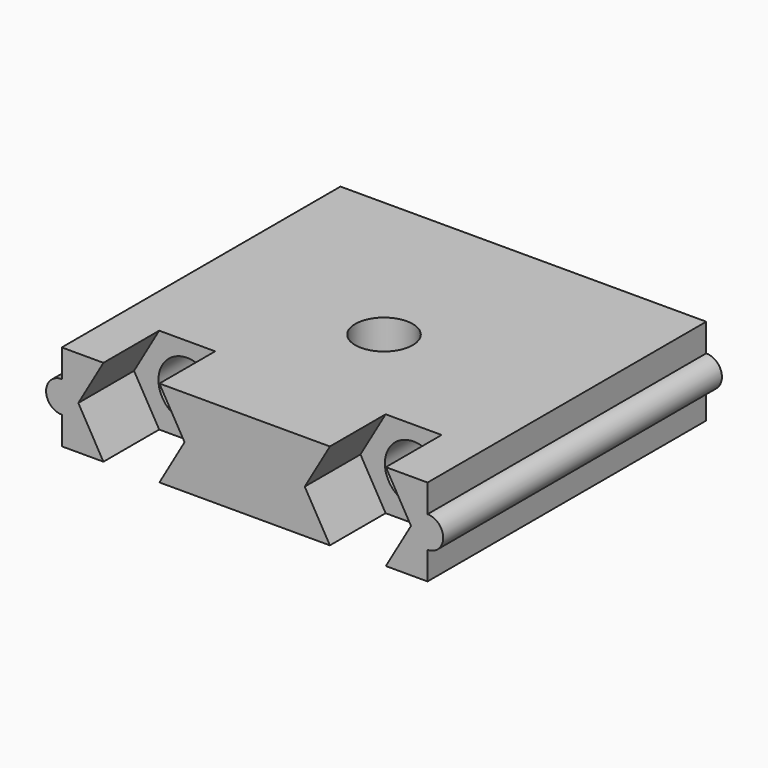
from build123d import *

# Parameters (mm, degrees)
F1_DEPTH = 10
F3_D     = 3.3
F5_D     = 3.3
F6_DEPTH = 4


with BuildPart() as f1:
    # F0 (on Front) → F1 (new body, symmetric)
    with BuildSketch(Plane.XZ):
        Polygon((10.5, 0.9), (10.5, 2.5), (-10.5, 2.5), (-10.5, 0.9), (-10.5, -0.9), (-10.5, -2.5), (10.5, -2.5), (10.5, -0.9), align=None)
        with BuildLine():
            ThreePointArc((10.5, -0.9), (11.4, 0), (10.5, 0.9))
            Line((10.5, 0.9), (10.5, -0.9))
        make_face()
        with BuildLine():
            Line((-10.5, -0.9), (-10.5, 0.9))
            ThreePointArc((-10.5, 0.9), (-11.4, 0), (-10.5, -0.9))
        make_face()
    extrude(amount=F1_DEPTH, both=True)

    # F3 (through all)
    with Locations(Plane.XY.offset(2.5)):
        with Locations((0, 0)):
            Hole(F3_D / 2)

    # F5 (through all)
    with Locations(Plane.XZ.offset(10)):
        with Locations((-6.5, 0), (6.5, 0)):
            Hole(F5_D / 2)

    # F4 (on face) → F6 (cut)
    with BuildSketch(Plane.XZ.offset(10)):
        Polygon((-3.45, 0), (-4.975, 2.6413774815), (-8.025, 2.6413774815), (-9.55, 0), (-8.025, -2.6413774815), (-4.975, -2.6413774815), align=None)
        Polygon((4.975, 2.6413774815), (3.45, 0), (4.975, -2.6413774815), (8.025, -2.6413774815), (9.55, 0), (8.025, 2.6413774815), align=None)
    extrude(amount=-F6_DEPTH, mode=Mode.SUBTRACT)


solid = f1.part
